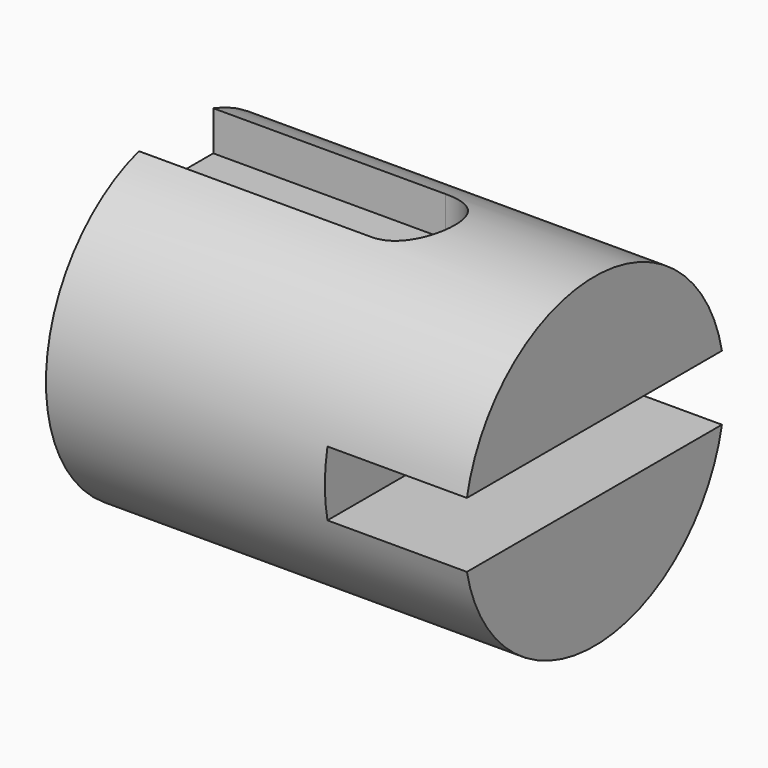
from build123d import *

# Parameters (mm, degrees)
F0_R     = 17.5
F1_DEPTH = 45
F3_DEPTH = 15
F6_DEPTH = 10


with BuildPart() as f1:
    # F0 (on Right) → F1 (new body)
    with BuildSketch(Plane.YZ):
        Circle(F0_R)
    extrude(amount=F1_DEPTH)

    # F2 (on face) → F3 (cut)
    with BuildSketch(Plane.YZ.offset(45)):
        with BuildLine():
            Line((17.1464281995, 3.5), (-17.1464281995, 3.5))
            ThreePointArc((-17.1464281995, 3.5), (-17.5, 0), (-17.1464281995, -3.5))
            Line((-17.1464281995, -3.5), (17.1464281995, -3.5))
            ThreePointArc((17.1464281995, -3.5), (17.4113826776, -1.7589068351), (17.5, 0))
            ThreePointArc((17.5, 0), (17.4113826776, 1.7589068351), (17.1464281995, 3.5))
        make_face()
    extrude(amount=-F3_DEPTH, mode=Mode.SUBTRACT)

    # F5 (on offset) → F6 (cut)
    with BuildSketch(Plane.XY.offset(12.5)):
        with BuildLine():
            Line((25, 5), (0, 5))
            Line((0, 5), (0, -5))
            Line((0, -5), (25, -5))
            ThreePointArc((25, -5), (30, 0), (25, 5))
        make_face()
    extrude(amount=F6_DEPTH, mode=Mode.SUBTRACT)


solid = f1.part
